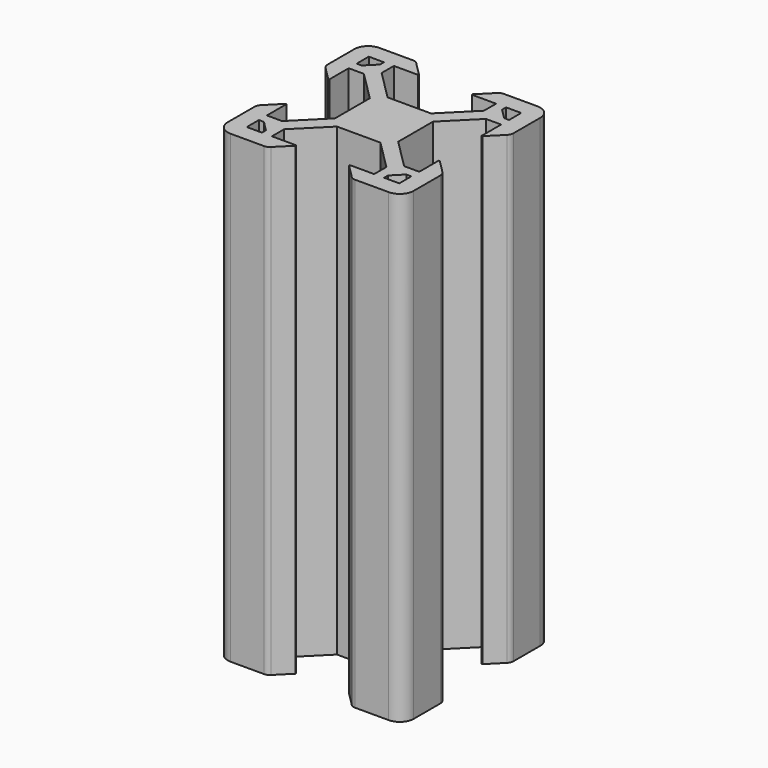
from build123d import *

# Parameters (mm, degrees)
F1_DEPTH = 25


with BuildPart() as f1:
    # F0 (on Top) → F1 (new body, symmetric)
    with BuildSketch(Plane.XY):
        with BuildLine():
            Line((-8.2, 5.5), (-6.56066, 5.5))
            Line((-6.56066, 5.5), (-3.4, 2.33934))
            Line((-3.4, 2.33934), (-3.4, -2.33934))
            Line((-3.4, -2.33934), (-6.56066, -5.5))
            Line((-6.56066, -5.5), (-8.2, -5.5))
            Line((-8.2, -5.5), (-8.2, -2.89))
            Line((-8.2, -2.89), (-8.31, -2.89))
            Line((-8.31, -2.89), (-9.768614, -4.348614))
            ThreePointArc((-9.768614, -4.348614), (-9.939865, -4.604909), (-10, -4.907229))
            Line((-10, -4.907229), (-10, -8.5))
            ThreePointArc((-10, -8.5), (-9.56066, -9.56066), (-8.5, -10))
            Line((-8.5, -10), (-4.907229, -10))
            ThreePointArc((-4.907229, -10), (-4.604909, -9.939865), (-4.348614, -9.768614))
            Line((-4.348614, -9.768614), (-2.89, -8.31))
            Line((-2.89, -8.31), (-2.89, -8.2))
            Line((-2.89, -8.2), (-5.5, -8.2))
            Line((-5.5, -8.2), (-5.5, -6.56066))
            Line((-5.5, -6.56066), (-2.33934, -3.4))
            Line((-2.33934, -3.4), (2.33934, -3.4))
            Line((2.33934, -3.4), (5.5, -6.56066))
            Line((5.5, -6.56066), (5.5, -8.2))
            Line((5.5, -8.2), (2.89, -8.2))
            Line((2.89, -8.2), (2.89, -8.31))
            Line((2.89, -8.31), (4.348614, -9.768614))
            ThreePointArc((4.348614, -9.768614), (4.604909, -9.939865), (4.907229, -10))
            Line((4.907229, -10), (8.5, -10))
            ThreePointArc((8.5, -10), (9.56066, -9.56066), (10, -8.5))
            Line((10, -8.5), (10, -4.907229))
            ThreePointArc((10, -4.907229), (9.939865, -4.604909), (9.768614, -4.348614))
            Line((9.768614, -4.348614), (8.31, -2.89))
            Line((8.31, -2.89), (8.2, -2.89))
            Line((8.2, -2.89), (8.2, -5.5))
            Line((8.2, -5.5), (6.56066, -5.5))
            Line((6.56066, -5.5), (3.4, -2.33934))
            Line((3.4, -2.33934), (3.4, 2.33934))
            Line((3.4, 2.33934), (6.56066, 5.5))
            Line((6.56066, 5.5), (8.2, 5.5))
            Line((8.2, 5.5), (8.2, 2.89))
            Line((8.2, 2.89), (8.31, 2.89))
            Line((8.31, 2.89), (9.768614, 4.348614))
            ThreePointArc((9.768614, 4.348614), (9.939865, 4.604909), (10, 4.907229))
            Line((10, 4.907229), (10, 8.5))
            ThreePointArc((10, 8.5), (9.56066, 9.56066), (8.5, 10))
            Line((8.5, 10), (4.907229, 10))
            ThreePointArc((4.907229, 10), (4.604909, 9.939865), (4.348614, 9.768614))
            Line((4.348614, 9.768614), (2.89, 8.31))
            Line((2.89, 8.31), (2.89, 8.2))
            Line((2.89, 8.2), (5.5, 8.2))
            Line((5.5, 8.2), (5.5, 6.56066))
            Line((5.5, 6.56066), (2.33934, 3.4))
            Line((2.33934, 3.4), (-2.33934, 3.4))
            Line((-2.33934, 3.4), (-5.5, 6.56066))
            Line((-5.5, 6.56066), (-5.5, 8.2))
            Line((-5.5, 8.2), (-2.89, 8.2))
            Line((-2.89, 8.2), (-2.89, 8.31))
            Line((-2.89, 8.31), (-4.348614, 9.768614))
            ThreePointArc((-4.348614, 9.768614), (-4.604909, 9.939865), (-4.907229, 10))
            Line((-4.907229, 10), (-8.5, 10))
            ThreePointArc((-8.5, 10), (-9.56066, 9.56066), (-10, 8.5))
            Line((-10, 8.5), (-10, 4.907229))
            ThreePointArc((-10, 4.907229), (-9.939865, 4.604909), (-9.768614, 4.348614))
            Line((-9.768614, 4.348614), (-8.31, 2.89))
            Line((-8.31, 2.89), (-8.2, 2.89))
            Line((-8.2, 2.89), (-8.2, 5.5))
        make_face()
        Polygon((-7.66, -6.57), (-6.57, -7.66), (-6.57, -8.2), (-8.2, -8.2), (-8.2, -6.57), align=None, mode=Mode.SUBTRACT)
        Polygon((6.57, -7.66), (7.66, -6.57), (8.2, -6.57), (8.2, -8.2), (6.57, -8.2), align=None, mode=Mode.SUBTRACT)
        Polygon((-8.2, 8.2), (-6.57, 8.2), (-6.57, 7.66), (-7.66, 6.57), (-8.2, 6.57), align=None, mode=Mode.SUBTRACT)
        Polygon((7.66, 6.57), (6.57, 7.66), (6.57, 8.2), (8.2, 8.2), (8.2, 6.57), align=None, mode=Mode.SUBTRACT)
    extrude(amount=F1_DEPTH, both=True)


solid = f1.part
